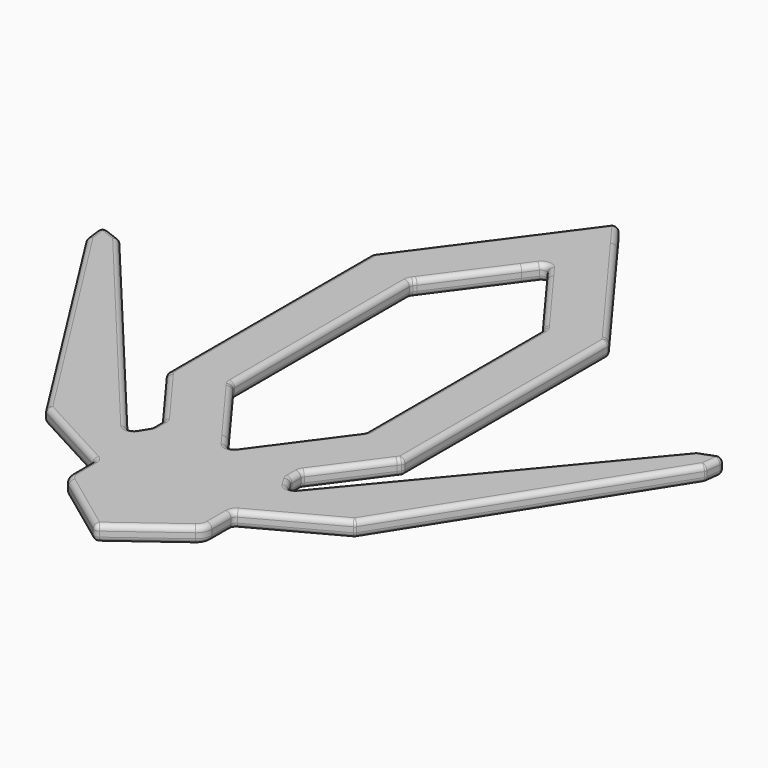
from build123d import *

# Parameters (mm, degrees)
F1_DEPTH = 3
F2_R     = 1


with BuildPart() as f1:
    # F0 (on Top) → F1 (new body)
    with BuildSketch(Plane.XY):
        with BuildLine():
            Line((4.0261977259, 49.6110935701), (0, 55.0787647013))
            Line((0, 55.0787647013), (-4.0261977259, 49.6110935701))
            ThreePointArc((-4.0261977259, 49.6110935701), (0, 51.6463453731), (4.0261977259, 49.6110935701))
        make_face()
        with BuildLine():
            Line((21.9811143093, 25.2278948926), (4.0261977259, 49.6110935701))
            ThreePointArc((4.0261977259, 49.6110935701), (0, 51.6463453731), (-4.0261977259, 49.6110935701))
            Line((-4.0261977259, 49.6110935701), (-21.9811143093, 25.2278948926))
            ThreePointArc((-21.9811143093, 25.2278948926), (-22.4155847821, 24.3852201284), (-22.5653956737, 23.4490459744))
            Line((-22.5653956737, 23.4490459744), (-22.5653956737, 0))
            Line((-22.5653956737, 0), (-22.5653956737, -23.4490459744))
            ThreePointArc((-22.5653956737, -23.4490459744), (-22.4155847821, -24.3852201284), (-21.9811143093, -25.2278948926))
            Line((-21.9811143093, -25.2278948926), (-13.2957966998, -37.0227603193))
            Line((-13.2957966998, -37.0227603193), (-4.0261977259, -49.6110935701))
            Line((-4.0261977259, -49.6110935701), (0, -55.0787647013))
            Line((0, -55.0787647013), (4.0261977259, -49.6110935701))
            Line((4.0261977259, -49.6110935701), (13.2957966998, -37.0227603193))
            Line((13.2957966998, -37.0227603193), (21.9811143093, -25.2278948926))
            ThreePointArc((21.9811143093, -25.2278948926), (22.4155847821, -24.3852201284), (22.5653956737, -23.4490459744))
            Line((22.5653956737, -23.4490459744), (22.5653956737, 0))
            Line((22.5653956737, 0), (22.5653956737, 23.4490459744))
            ThreePointArc((22.5653956737, 23.4490459744), (22.4155847821, 24.3852201284), (21.9811143093, 25.2278948926))
        make_face()
        Polygon((11.9811143093, 21.9432912455), (12.5653956737, 21.1498234214), (12.5653956737, 20.1644423273), (12.5653956737, 0), (12.5653956737, -20.1644423273), (12.5653956737, -21.1498234214), (11.9811143093, -21.9432912455), (2.4157186356, -34.9333233661), (0, -38.2139260448), (-2.4157186356, -34.9333233661), (-11.9811143093, -21.9432912455), (-12.5653956737, -21.1498234214), (-12.5653956737, -20.1644423273), (-12.5653956737, 0), (-12.5653956737, 20.1644423273), (-12.5653956737, 21.1498234214), (-11.9811143093, 21.9432912455), (-2.4157186356, 34.9333233661), (0, 38.2139260448), (2.4157186356, 34.9333233661), align=None, mode=Mode.SUBTRACT)
        with BuildLine():
            Line((22.5653956737, 24.4344270685), (21.9811143093, 25.2278948926))
            ThreePointArc((21.9811143093, 25.2278948926), (22.4155847821, 24.3852201284), (22.5653956737, 23.4490459744))
            Line((22.5653956737, 23.4490459744), (22.5653956737, 24.4344270685))
        make_face()
        with BuildLine():
            ThreePointArc((-22.5653956737, 23.4490459744), (-22.4155847821, 24.3852201284), (-21.9811143093, 25.2278948926))
            Line((-21.9811143093, 25.2278948926), (-22.5653956737, 24.4344270685))
            Line((-22.5653956737, 24.4344270685), (-22.5653956737, 23.4490459744))
        make_face()
        with BuildLine():
            Line((22.5653956737, -24.4344270685), (22.5653956737, -23.4490459744))
            ThreePointArc((22.5653956737, -23.4490459744), (22.4155847821, -24.3852201284), (21.9811143093, -25.2278948926))
            Line((21.9811143093, -25.2278948926), (22.5653956737, -24.4344270685))
        make_face()
        with BuildLine():
            ThreePointArc((-21.9811143093, -25.2278948926), (-22.4155847821, -24.3852201284), (-22.5653956737, -23.4490459744))
            Line((-22.5653956737, -23.4490459744), (-22.5653956737, -24.4344270685))
            Line((-22.5653956737, -24.4344270685), (-21.9811143093, -25.2278948926))
        make_face()
        with BuildLine():
            Line((13.2957966998, -39.7565958849), (13.2957966998, -37.0227603193))
            Line((13.2957966998, -37.0227603193), (4.0261977259, -49.6110935701))
            Line((4.0261977259, -49.6110935701), (0, -55.0787647013))
            Line((0, -55.0787647013), (-4.0261977259, -49.6110935701))
            Line((-4.0261977259, -49.6110935701), (-13.2957966998, -37.0227603193))
            Line((-13.2957966998, -37.0227603193), (-13.2957966998, -39.7565958849))
            Line((-13.2957966998, -39.7565958849), (-13.2957966998, -53.3776320517))
            Line((-13.2957966998, -53.3776320517), (-13.2957966998, -58.5350411061))
            ThreePointArc((-13.2957966998, -58.5350411061), (-12.9752632957, -59.8842848802), (-12.0821575253, -60.9452101876))
            Line((-12.0821575253, -60.9452101876), (0, -69.9002221227))
            Line((0, -69.9002221227), (12.0821575253, -60.9452101876))
            ThreePointArc((12.0821575253, -60.9452101876), (12.9752632957, -59.8842848802), (13.2957966998, -58.5350411061))
            Line((13.2957966998, -58.5350411061), (13.2957966998, -53.3776320517))
            Line((13.2957966998, -53.3776320517), (13.2957966998, -39.7565958849))
        make_face()
        Polygon((15.2398003265, -42.9294370115), (13.2957966998, -39.7565958849), (13.2957966998, -53.3776320517), (29.4546913356, -44.6352213621), (59.0216629207, 1.9896160811), (59.590253979, 6.5383808687), (55.04148826, 4.8325946555), align=None)
        Polygon((-13.2957966998, -53.3776320517), (-13.2957966998, -39.7565958849), (-15.2398003265, -42.9294370115), (-55.04148826, 4.8325946555), (-59.590253979, 6.5383808687), (-59.0216629207, 1.9896160811), (-29.4546913356, -44.6352213621), align=None)
    extrude(amount=F1_DEPTH)

    # F2
    f2_edges = [f1.edges().sort_by_distance(p)[0] for p in [
        (-17.930596, -30.728594, 0),
        (-17.930596, -30.728594, 3),
        (-12.565396, 0, 3),
        (-22.565396, 0, 0),
        (-22.565396, 0, 3),
        (-13.295797, -38.389678, 0),
        (-12.565396, -21.149823, 1.5),
        (-13.295797, -38.389678, 3),
        (-12.565396, 0, 0),
        (-13.295797, -37.02276, 1.5),
        (-22.565396, -24.434427, 1.5),
        (-22.565396, 24.434427, 1.5),
        (-12.565396, 21.149823, 1.5),
        (-13.295797, -58.535041, 1.5),
        (-13.295797, -39.756596, 1.5),
        (-13.295797, -53.377632, 1.5),
        (6.282698, -29.681875, 3),
        (-6.282698, -29.681875, 3),
        (6.282698, 29.681875, 3),
        (22.565396, 0, 3),
        (-6.282698, -29.681875, 0),
        (-6.282698, 29.681875, 3),
        (17.930596, -30.728594, 3),
        (11.282698, 39.756596, 3),
        (11.282698, 39.756596, 0),
        (-6.282698, 29.681875, 0),
        (-11.282698, 39.756596, 3),
        (6.041079, -65.422716, 3),
        (6.041079, -65.422716, 0),
        (-12.975263, -59.884285, 3),
        (12.565396, 0, 0),
        (12.565396, 0, 3),
        (22.565396, 0, 0),
        (13.295797, -37.02276, 1.5),
        (17.930596, -30.728594, 0),
        (6.282698, -29.681875, 0),
        (0, -38.213926, 1.5),
        (6.282698, 29.681875, 0),
        (-13.295797, -55.956337, 0),
        (13.295797, -38.389678, 0),
        (13.295797, -55.956337, 0),
        (13.295797, -38.389678, 3),
        (13.295797, -55.956337, 3),
        (-11.282698, 39.756596, 0),
        (-6.041079, -65.422716, 0),
        (12.975263, -59.884285, 3),
        (-13.295797, -55.956337, 3),
        (-6.041079, -65.422716, 3),
        (12.565396, -21.149823, 1.5),
        (22.565396, -24.434427, 1.5),
        (12.565396, 21.149823, 1.5),
        (0, 38.213926, 1.5),
        (0, 55.078765, 1.5),
        (22.565396, 24.434427, 1.5),
        (0, -69.900222, 1.5),
        (-12.082158, -60.94521, 1.5),
        (-12.975263, -59.884285, 0),
        (13.295797, -58.535041, 1.5),
        (13.295797, -39.756596, 1.5),
        (13.295797, -53.377632, 1.5),
        (12.082158, -60.94521, 1.5),
        (12.975263, -59.884285, 0),
        (-35.140644, -19.048421, 0),
        (21.375244, -49.006427, 0),
        (35.140644, -19.048421, 0),
        (-21.375244, -49.006427, 0),
        (57.315871, 5.685488, 0),
        (55.041488, 4.832595, 1.5),
        (44.238177, -21.322803, 3),
        (14.267799, -41.343016, 0),
        (-44.238177, -21.322803, 0),
        (29.454691, -44.635221, 1.5),
        (-44.238177, -21.322803, 3),
        (-35.140644, -19.048421, 3),
        (21.375244, -49.006427, 3),
        (-21.375244, -49.006427, 3),
        (44.238177, -21.322803, 0),
        (59.590254, 6.538381, 1.5),
        (35.140644, -19.048421, 3),
        (59.305958, 4.263998, 3),
        (14.267799, -41.343016, 3),
        (59.021663, 1.989616, 1.5),
        (57.315871, 5.685488, 3),
        (15.2398, -42.929437, 1.5),
        (-29.454691, -44.635221, 1.5),
        (59.305958, 4.263998, 0),
        (-15.2398, -42.929437, 1.5),
        (-14.267799, -41.343016, 0),
        (-14.267799, -41.343016, 3),
        (-55.041488, 4.832595, 1.5),
        (-57.315871, 5.685488, 3),
        (-57.315871, 5.685488, 0),
        (-59.590254, 6.538381, 1.5),
        (-59.305958, 4.263998, 0),
        (-59.021663, 1.989616, 1.5),
        (-59.305958, 4.263998, 3),
    ]]
    fillet(f2_edges, radius=F2_R)


solid = f1.part
